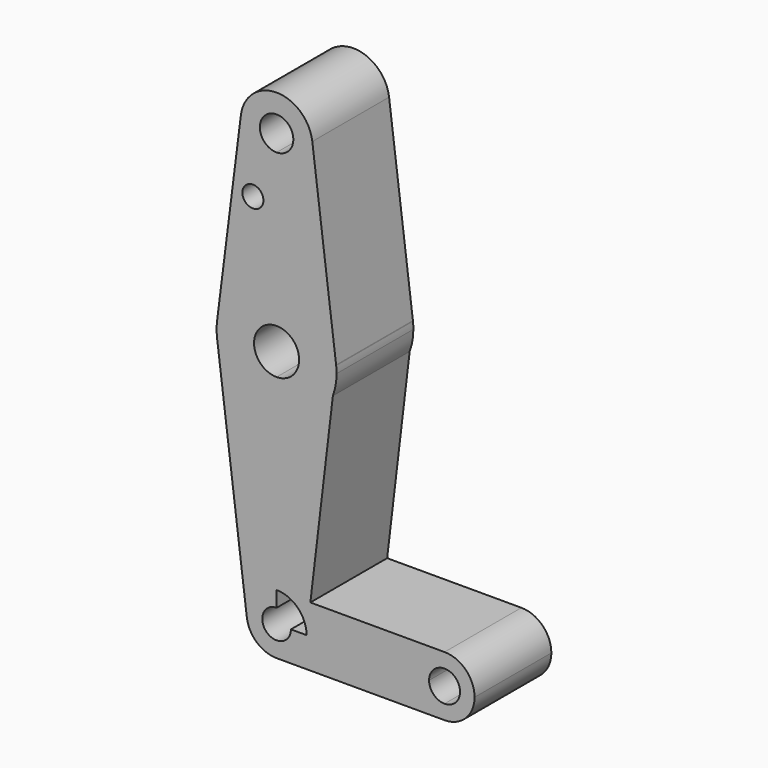
from build123d import *

# Parameters (mm, degrees)
F0_R     = 2.7843999113
F1_DEPTH = 25.4


with BuildPart() as f1:
    # F0 (on Front) → F1 (new body)
    with BuildSketch(Plane.XZ):
        with BuildLine():
            ThreePointArc((-186.3992546686, 115.1969662746), (-183.961766006, 107.8897729668), (-176.9165822339, 104.775))
            ThreePointArc((-176.9165822339, 104.775), (-170.1813901431, 107.5648079092), (-167.3915822339, 114.3))
            ThreePointArc((-167.3915822339, 114.3), (-167.4102773397, 114.896483242), (-167.4662892697, 115.490625))
            ThreePointArc((-167.4662892697, 115.490625), (-176.7679921127, 123.8238409256), (-186.3251325341, 115.7848589996))
            Line((-186.3251325341, 115.7848589996), (-186.3992546686, 115.1969662746))
        make_face()
        with BuildLine():
            ThreePointArc((-172.4871080347, 114.3), (-173.7844709905, 111.1678887566), (-176.9165822339, 109.8705258007))
            ThreePointArc((-176.9165822339, 109.8705258007), (-180.0486934773, 117.4321112434), (-172.4871080347, 114.3))
        make_face(mode=Mode.SUBTRACT)
        with BuildLine():
            ThreePointArc((-167.3915822339, 114.3), (-170.1813901431, 107.5648079092), (-176.9165822339, 104.775))
            Line((-176.9165822339, 104.775), (-176.9165822339, 79.375))
            ThreePointArc((-176.9165822339, 79.375), (-166.4162567181, 75.40625), (-161.1660939602, 65.484375))
            Line((-161.1660939602, 65.484375), (-167.4662892697, 115.490625))
            ThreePointArc((-167.4662892697, 115.490625), (-167.4102773397, 114.896483242), (-167.3915822339, 114.3))
        make_face()
        with BuildLine():
            Line((-176.9165822339, 79.375), (-176.9165822339, 104.775))
            ThreePointArc((-176.9165822339, 104.775), (-183.961766006, 107.8897729668), (-186.3992546686, 115.1969662746))
            Line((-186.3992546686, 115.1969662746), (-192.666888983, 65.4858152761))
            ThreePointArc((-192.666888983, 65.4858152761), (-187.4163633624, 75.4067300823), (-176.9165822339, 79.375))
        make_face()
        with Locations((-183.1827014685, 97.5605398417)):
            Circle(F0_R, mode=Mode.SUBTRACT)
        with BuildLine():
            ThreePointArc((-161.1660939602, 65.484375), (-166.4162567181, 75.40625), (-176.9165822339, 79.375))
            Line((-176.9165822339, 79.375), (-176.9165822339, 69.4586900283))
            ThreePointArc((-176.9165822339, 69.4586900283), (-172.703152108, 67.713430126), (-170.9578922057, 63.5))
            ThreePointArc((-170.9578922057, 63.5), (-172.703152108, 59.286569874), (-176.9165822339, 57.5413099717))
            Line((-176.9165822339, 57.5413099717), (-176.9165822339, 47.625))
            ThreePointArc((-176.9165822339, 47.625), (-167.8372270279, 50.4776755515), (-162.0209212227, 58.0104728766))
            Line((-162.0209212227, 58.0104728766), (-161.1487081132, 65.3411329974))
            ThreePointArc((-161.1487081132, 65.3411329974), (-161.157238289, 65.4127737521), (-161.1660939602, 65.484375))
        make_face()
        with BuildLine():
            Line((-176.9165822339, 69.4586900283), (-176.9165822339, 79.375))
            ThreePointArc((-176.9165822339, 79.375), (-187.4163633624, 75.4067300823), (-192.666888983, 65.4858152761))
            ThreePointArc((-192.666888983, 65.4858152761), (-192.7915822173, 63.5007258351), (-192.6670705076, 61.515625))
            ThreePointArc((-192.6670705076, 61.515625), (-187.4169077497, 51.59375), (-176.9165822339, 47.625))
            Line((-176.9165822339, 47.625), (-176.9165822339, 57.5413099717))
            ThreePointArc((-176.9165822339, 57.5413099717), (-182.8752722622, 63.5), (-176.9165822339, 69.4586900283))
        make_face()
        with BuildLine():
            ThreePointArc((-186.3251325341, 115.7848589996), (-186.3667662834, 115.4914891656), (-186.3992546686, 115.1969662746))
            Line((-186.3992546686, 115.1969662746), (-186.3251325341, 115.7848589996))
        make_face()
        with BuildLine():
            ThreePointArc((-161.0415822339, 63.5), (-161.0683863324, 64.4221234554), (-161.1487081132, 65.3411329974))
            Line((-161.1487081132, 65.3411329974), (-162.0209212227, 58.0104728766))
            ThreePointArc((-162.0209212227, 58.0104728766), (-161.2883346746, 60.7118997107), (-161.0415822339, 63.5))
        make_face()
        with BuildLine():
            ThreePointArc((-176.9165822339, 47.625), (-187.4169077497, 51.59375), (-192.6670705076, 61.515625))
            Line((-192.6670705076, 61.515625), (-184.7918263708, -0.9921875))
            ThreePointArc((-184.7918263708, -0.9921875), (-182.8697072339, 5.2501627579), (-176.9165822339, 7.9375))
            Line((-176.9165822339, 7.9375), (-176.9165822339, 47.625))
        make_face()
        with BuildLine():
            ThreePointArc((-162.0209212227, 58.0104728766), (-167.8372270279, 50.4776755515), (-176.9165822339, 47.625))
            Line((-176.9165822339, 47.625), (-176.9165822339, 7.9375))
            Line((-176.9165822339, 7.9375), (-167.9786798218, 7.9375))
            Line((-167.9786798218, 7.9375), (-162.0209212227, 58.0104728766))
        make_face()
        with BuildLine():
            ThreePointArc((-176.9165822339, 7.9375), (-182.8697072339, 5.2501627579), (-184.7918263708, -0.9921875))
            ThreePointArc((-184.7918263708, -0.9921875), (-182.1667449918, -5.953125), (-176.9165822339, -7.9375))
            ThreePointArc((-176.9165822339, -7.9375), (-171.3039221583, -5.6126600757), (-168.9790822339, 0))
            Line((-168.9790822339, 0), (-173.1248187835, 0))
            ThreePointArc((-173.1248187835, 0), (-179.5977638824, -2.6811816485), (-176.9165822339, 3.7917634504))
            Line((-176.9165822339, 3.7917634504), (-176.9165822339, 7.9375))
        make_face()
        with BuildLine():
            Line((-167.9786798218, 7.9375), (-176.9165822339, 7.9375))
            ThreePointArc((-176.9165822339, 7.9375), (-171.3039221583, 5.6126600757), (-168.9790822339, 0))
            Line((-168.9790822339, 0), (-168.9230956646, 0))
            Line((-168.9230956646, 0), (-167.9786798218, 7.9375))
        make_face()
        with BuildLine():
            Line((-132.4665822339, 7.9375), (-167.9786798218, 7.9375))
            Line((-167.9786798218, 7.9375), (-168.9230956646, 0))
            Line((-168.9230956646, 0), (-140.4040822339, 0))
            ThreePointArc((-140.4040822339, 0), (-138.0792423096, 5.6126600757), (-132.4665822339, 7.9375))
        make_face()
        with BuildLine():
            ThreePointArc((-168.9790822339, 0), (-171.3039221583, -5.6126600757), (-176.9165822339, -7.9375))
            Line((-176.9165822339, -7.9375), (-132.4665822339, -7.9375))
            ThreePointArc((-132.4665822339, -7.9375), (-138.0792423096, -5.6126600757), (-140.4040822339, 0))
            Line((-140.4040822339, 0), (-168.9230956646, 0))
            Line((-168.9230956646, 0), (-168.9790822339, 0))
        make_face()
        with BuildLine():
            Line((-132.4665822339, 4.1004134625), (-132.4665822339, 7.9375))
            ThreePointArc((-132.4665822339, 7.9375), (-138.0792423096, 5.6126600757), (-140.4040822339, 0))
            Line((-140.4040822339, 0), (-136.5669956964, 0))
            ThreePointArc((-136.5669956964, 0), (-135.3660123989, 2.899430165), (-132.4665822339, 4.1004134625))
        make_face()
        with BuildLine():
            ThreePointArc((-124.5290822339, 0), (-126.8539221583, 5.6126600757), (-132.4665822339, 7.9375))
            Line((-132.4665822339, 7.9375), (-132.4665822339, 4.1004134625))
            ThreePointArc((-132.4665822339, 4.1004134625), (-129.5671520689, 2.899430165), (-128.3661687714, 0))
            ThreePointArc((-128.3661687714, 0), (-129.5671520689, -2.899430165), (-132.4665822339, -4.1004134625))
            Line((-132.4665822339, -4.1004134625), (-132.4665822339, -7.9375))
            ThreePointArc((-132.4665822339, -7.9375), (-126.8539221583, -5.6126600757), (-124.5290822339, 0))
        make_face()
        with BuildLine():
            ThreePointArc((-140.4040822339, 0), (-138.0792423096, -5.6126600757), (-132.4665822339, -7.9375))
            Line((-132.4665822339, -7.9375), (-132.4665822339, -4.1004134625))
            ThreePointArc((-132.4665822339, -4.1004134625), (-135.3660123989, -2.899430165), (-136.5669956964, 0))
            Line((-136.5669956964, 0), (-140.4040822339, 0))
        make_face()
    extrude(amount=F1_DEPTH)


solid = f1.part
